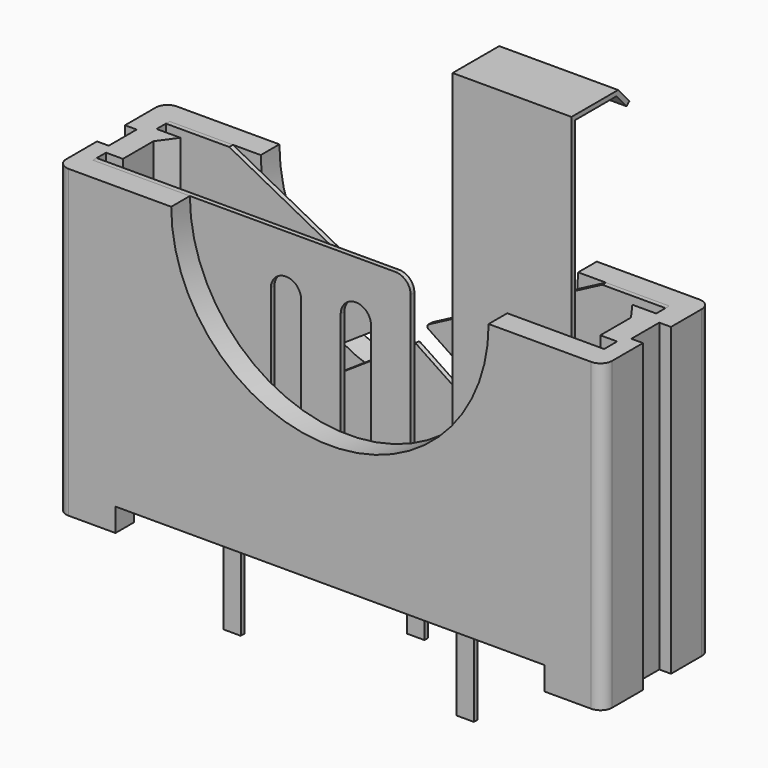
from build123d import *

# Parameters (mm, degrees)
PAD_DEPTH            = 13.1
POCKET_DEPTH         = 12.1
SKETCH010_W          = 8.02
SKETCH010_H          = 5.8
PAD001_DEPTH         = 2
SKETCH002_R          = 6.808
SKETCH002_W          = 18.396
SKETCH002_H          = 1
POCKET001_DEPTH      = 4.701
POCKET001_DEPTH_BACK = -1.101
SKETCH003_W          = 6
SKETCH003_H          = 3.8
POCKET002_DEPTH      = 1
SKETCH009_W          = 0.5
SKETCH009_H          = 1.5
POCKET003_DEPTH      = 0.001
POCKET003_DEPTH_BACK = -13.101
SKETCH011_W          = 2.5
SKETCH011_H          = 0.7
POCKET004_DEPTH      = 7.1
PAD002_DEPTH         = 10.963
PAD002_DEPTH_BACK    = 10.963
SKETCH004_W          = 5.588
SKETCH004_H          = 3.8
POCKET005_DEPTH      = 3.001
POCKET005_DEPTH_BACK = -0.101
PAD003_DEPTH         = 0.1
PAD003_DEPTH_BACK    = 0.1
POCKET006_DEPTH      = 0.101
POCKET006_DEPTH_BACK = -0.101


with BuildPart() as obj1:
    # Sketch → Pad (new body)
    with BuildSketch(Plane.XY):
        with BuildLine():
            Line((11.71, 4.2), (11.71, -0.6))
            ThreePointArc((11.21, -1.1), (11.563553, -0.953553), (11.71, -0.6))
            Line((11.21, -1.1), (-11.21, -1.1))
            ThreePointArc((-11.71, -0.6), (-11.563553, -0.953553), (-11.21, -1.1))
            Line((-11.71, -0.6), (-11.71, 4.2))
            ThreePointArc((-11.21, 4.7), (-11.563553, 4.553553), (-11.71, 4.2))
            Line((-11.21, 4.7), (0, 4.7))
            Line((0, 4.7), (11.21, 4.7))
            ThreePointArc((11.71, 4.2), (11.563553, 4.553553), (11.21, 4.7))
        make_face()
    extrude(amount=PAD_DEPTH)

    # Sketch001 (on DatumPlane) → Pocket (cut)
    with BuildSketch(Plane.XY.offset(13.1)):
        Polygon((-10.714, 3.7), (10.714, 3.7), (10.714, 3), (9.693, 3), (10.241, 2.243), (10.241, 0.6), (10.963, 0.6), (10.963, -0.1), (-10.963, -0.1), (-10.963, 0.6), (-10.241, 0.6), (-10.241, 2.243), (-9.693, 3), (-10.714, 3), align=None)
    extrude(amount=-POCKET_DEPTH, mode=Mode.SUBTRACT)

    # Sketch010 → Pad001 (join)
    with BuildSketch(Plane.XY):
        with Locations((0, 1.8)):
            Rectangle(SKETCH010_W, SKETCH010_H)
    extrude(amount=PAD001_DEPTH)

    # Sketch002 → Pocket001 (cut, two sides)
    with BuildSketch(Plane.XZ) as pocket001_sk:
        with Locations((0, 13.1)):
            Circle(SKETCH002_R)
        with Locations((0, 0.5)):
            Rectangle(SKETCH002_W, SKETCH002_H)
    extrude(amount=-POCKET001_DEPTH, mode=Mode.SUBTRACT)
    extrude(pocket001_sk.sketch, amount=-POCKET001_DEPTH_BACK, mode=Mode.SUBTRACT)

    # Sketch003 → Pocket002 (cut)
    with BuildSketch(Plane.XY):
        with Locations((-7.01, 1.8)):
            Rectangle(SKETCH003_W, SKETCH003_H)
    pocket002 = extrude(amount=POCKET002_DEPTH, mode=Mode.SUBTRACT)

    # Mirrored: Pocket002 across Sketch003 V_Axis
    add(pocket002.mirror(Plane(origin=(0, 0, 0), x_dir=(0, 0, 1), z_dir=(1, 0, 0))), mode=Mode.SUBTRACT)

    # Sketch009 → Pocket003 (cut, two sides)
    with BuildSketch(Plane.XY) as pocket003_sk:
        with BuildLine():
            Line((0.9, 1.2), (1.7, 1.2))
            Line((1.7, 1.2), (1.7, -0.1))
            Line((1.7, -0.1), (-1.7, -0.1))
            Line((-1.7, -0.1), (-1.7, 1.2))
            Line((-1.7, 1.2), (-0.9, 1.2))
            ThreePointArc((-0.9, 1.2), (0, 0.3), (0.9, 1.2))
        make_face()
        Polygon((2, 3.7), (2, 3.3), (0.7, 3.3), (0.7, 2.5), (-0.7, 2.5), (-0.7, 3.3), (-2, 3.3), (-2, 3.7), align=None)
        with Locations((-11.46, 1.8)):
            Rectangle(SKETCH009_W, SKETCH009_H)
        with Locations((11.46, 1.8)):
            Rectangle(SKETCH009_W, SKETCH009_H)
    extrude(amount=-POCKET003_DEPTH, mode=Mode.SUBTRACT)
    extrude(pocket003_sk.sketch, amount=-POCKET003_DEPTH_BACK, mode=Mode.SUBTRACT)

    # Sketch011 → Pocket004 (cut)
    with BuildSketch(Plane.XY):
        with Locations((-6.96, -0.35)):
            Rectangle(SKETCH011_W, SKETCH011_H)
        with Locations((6.96, 3.95)):
            Rectangle(SKETCH011_W, SKETCH011_H)
    extrude(amount=POCKET004_DEPTH, mode=Mode.SUBTRACT)


with BuildPart() as pos:
    # Sketch005 → Pad002 (new body, two sides)
    with BuildSketch(Plane.YZ) as pad002_sk:
        Polygon((-0.1, 13.1), (-0.1, 21.41), (2.4, 21.41), (3, 20.74385), (2.851393, 20.61), (2.310974, 21.21), (0.1, 21.21), (0.1, 13.1), (0.1, 0), (0.1, -2.8), (-0.1, -2.8), (-0.1, 0), align=None)
    extrude(amount=PAD002_DEPTH)
    extrude(pad002_sk.sketch, amount=-PAD002_DEPTH_BACK)

    # Sketch004 → Pocket005 (cut, two sides)
    with BuildSketch(Plane.XZ) as pocket005_sk:
        with Locations((-8.169, -0.9)):
            Rectangle(SKETCH004_W, SKETCH004_H)
        with Locations((8.169, -0.9)):
            Rectangle(SKETCH004_W, SKETCH004_H)
        Polygon((4.625, -2.8), (4.625, 1), (4.3, 1), (4.2, 2.34), (1.3, 2.34), (1.25, 1), (-1.25, 1), (-1.3, 2.34), (-4.2, 2.34), (-4.3, 1), (-4.625, 1), (-4.625, -2.8), align=None)
        with BuildLine():
            Line((2.663, 12.45), (2.663, 5.99))
            ThreePointArc((0.963, 5.99), (1.813, 5.14), (2.663, 5.99))
            Line((0.963, 5.99), (0.963, 10.75))
            ThreePointArc((0.963, 10.75), (0.313, 11.4), (-0.337, 10.75))
            Line((-0.337, 10.75), (-0.337, 5.99))
            ThreePointArc((-2.037, 5.99), (-1.187, 5.14), (-0.337, 5.99))
            Line((-2.037, 5.99), (-2.037, 10.75))
            ThreePointArc((-2.037, 10.75), (-2.687, 11.4), (-3.337, 10.75))
            Line((-3.337, 10.75), (-3.337, 4.44))
            Line((-3.337, 4.44), (4.463, 4.44))
            Line((4.463, 4.44), (4.463, 13.1))
            Line((4.463, 21.41), (4.463, 13.1))
            Line((-10.963, 21.41), (4.463, 21.41))
            Line((-10.963, 13.1), (-10.963, 21.41))
            Line((2.013, 13.1), (-10.963, 13.1))
            ThreePointArc((2.663, 12.45), (2.472619, 12.909619), (2.013, 13.1))
        make_face()
        Polygon((10.963, 13.1), (10.963, 10.1), (9.563, 10.1), (9.563, 13.1), (9.563, 21.41), (10.963, 21.41), align=None)
    extrude(amount=-POCKET005_DEPTH, mode=Mode.SUBTRACT)
    extrude(pocket005_sk.sketch, amount=-POCKET005_DEPTH_BACK, mode=Mode.SUBTRACT)


with BuildPart() as neg:
    # Sketch012 (on DatumPlane) → Pad003 (new body, two sides)
    with BuildSketch(Plane.XZ.offset(-3.6)) as pad003_sk:
        Polygon((-10.714, 13.1), (10.714, 13.1), (10.714, 0), (10.714, -2.8), (-10.714, -2.8), (-10.714, 0), align=None)
    extrude(amount=PAD003_DEPTH)
    extrude(pad003_sk.sketch, amount=-PAD003_DEPTH_BACK)

    # Sketch007 (on DatumPlane) → Pocket006 (cut, two sides)
    with BuildSketch(Plane.XZ.offset(-3.6)) as pocket006_sk:
        Polygon((-10.714, 1), (-4.3, 1), (-4.2, 2.34), (-1.8, 2.34), (-1.75, 1), (-0.375, 1), (-0.375, -2.8), (-10.714, -2.8), align=None)
        Polygon((0.375, -2.8), (0.375, 1), (1.75, 1), (1.8, 2.34), (4.2, 2.34), (4.3, 1), (10.714, 1), (10.714, -2.8), align=None)
        with BuildLine():
            Line((8, 13.1), (0.548615, 9.178218))
            ThreePointArc((0.548615, 9.178218), (0.495327, 9.094983), (0.539582, 9.006613))
            Line((0.539582, 9.006613), (4.250231, 6.524011))
            ThreePointArc((3.749769, 5.775989), (4.374011, 5.899769), (4.250231, 6.524011))
            Line((3.749769, 5.775989), (0.055607, 8.24756))
            ThreePointArc((0.055607, 8.24756), (0, 8.264446), (-0.055607, 8.24756))
            Line((-0.055607, 8.24756), (-3.749769, 5.775989))
            ThreePointArc((-4.250231, 6.524011), (-4.374011, 5.899769), (-3.749769, 5.775989))
            Line((-4.250231, 6.524011), (-0.539582, 9.006613))
            ThreePointArc((-0.539582, 9.006613), (-0.495327, 9.094983), (-0.548615, 9.178218))
            Line((-0.548615, 9.178218), (-8, 13.1))
            Line((-8, 13.1), (8, 13.1))
        make_face()
    extrude(amount=-POCKET006_DEPTH, mode=Mode.SUBTRACT)
    extrude(pocket006_sk.sketch, amount=-POCKET006_DEPTH_BACK, mode=Mode.SUBTRACT)


solid = Compound([obj1.part, pos.part, neg.part])
